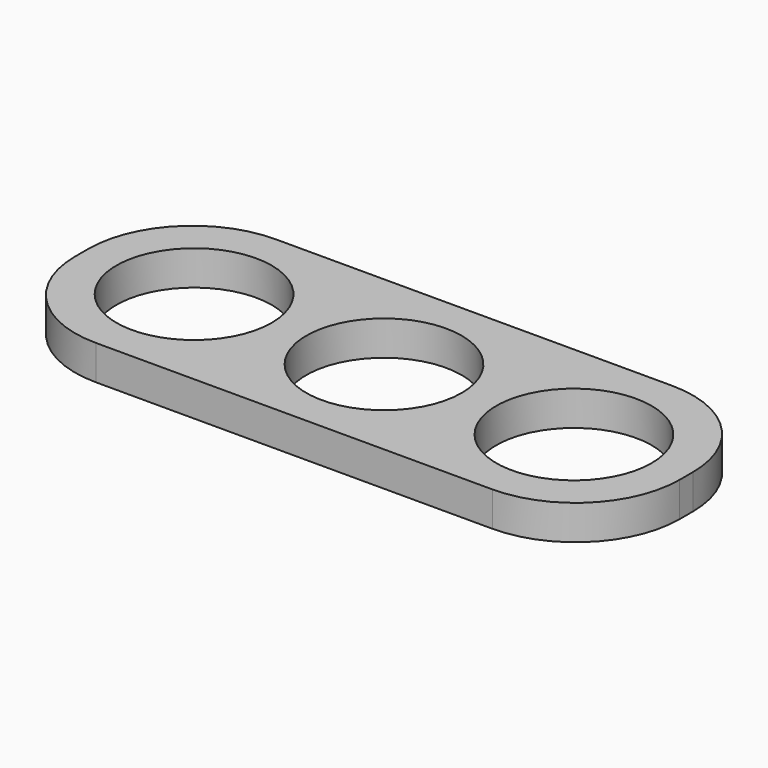
from build123d import *

# Parameters (mm, degrees)
F0_R     = 11.2
F1_DEPTH = 5


with BuildPart() as f1:
    # F0 (on Top) → F1 (new body)
    with BuildSketch(Plane.XY):
        with BuildLine():
            Line((28.6, 16.2), (-28.6, 16.2))
            ThreePointArc((-28.6, 16.2), (-39.206602, 11.806602), (-43.6, 1.2))
            Line((-43.6, 1.2), (-43.6, -1.2))
            ThreePointArc((-43.6, -1.2), (-39.206602, -11.806602), (-28.6, -16.2))
            Line((-28.6, -16.2), (28.6, -16.2))
            ThreePointArc((28.6, -16.2), (39.206602, -11.806602), (43.6, -1.2))
            Line((43.6, -1.2), (43.6, 1.2))
            ThreePointArc((43.6, 1.2), (39.206602, 11.806602), (28.6, 16.2))
        make_face()
        with Locations((-27.4, 0)):
            Circle(F0_R, mode=Mode.SUBTRACT)
        Circle(F0_R, mode=Mode.SUBTRACT)
        with Locations((27.4, 0)):
            Circle(F0_R, mode=Mode.SUBTRACT)
    extrude(amount=-F1_DEPTH)


solid = f1.part
